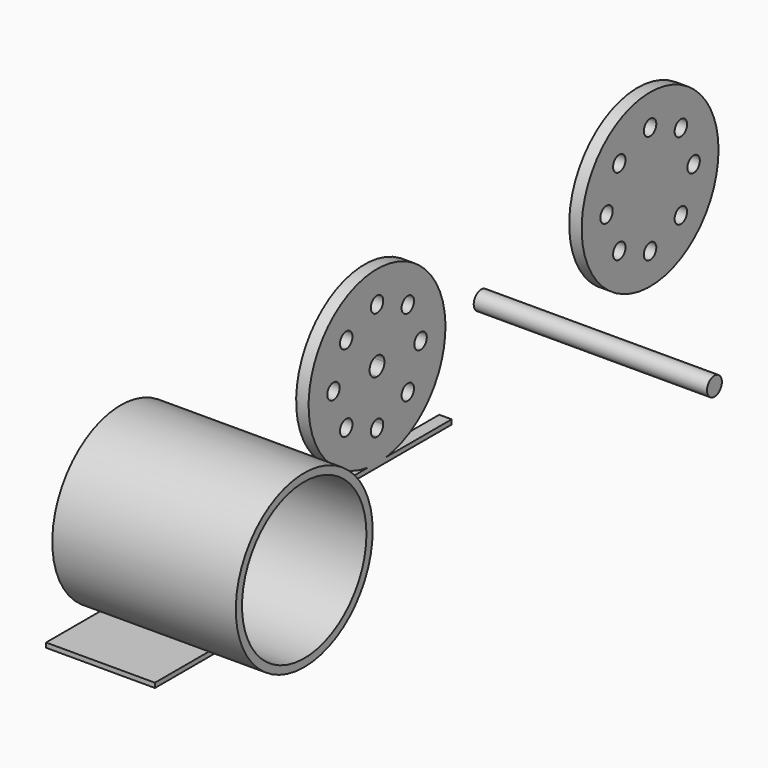
from build123d import *

# Parameters (mm, degrees)
F0_R     = 5
F1_DEPTH = 8
F2_R     = 6
F3_DEPTH = 150
F4_R     = 55
F4_R_2   = 5
F5_DEPTH = 8
F6_R     = 50
F7_DEPTH = 118
F8_DEPTH = 70


with BuildPart() as f1:
    # F0 (on Right) → F1 (new body)
    with BuildSketch(Plane.YZ):
        with BuildLine():
            Line((60, -54.5), (7.399324, -54.5))
            ThreePointArc((7.399324, -54.5), (0, 55), (-7.399324, -54.5))
            Line((-7.399324, -54.5), (-60, -54.5))
            Line((-60, -54.5), (-60, -57.5))
            Line((-60, -57.5), (60, -57.5))
            Line((60, -57.5), (60, -55))
            Line((60, -55), (60, -54.5))
        make_face()
        with Locations((-24.748737, -24.748737)):
            Circle(F0_R, mode=Mode.SUBTRACT)
        with BuildLine():
            ThreePointArc((0, -40), (-5, -35), (0, -30))
            ThreePointArc((0, -30), (3.535534, -31.464466), (5, -35))
            ThreePointArc((5, -35), (3.535534, -38.535534), (0, -40))
        make_face(mode=Mode.SUBTRACT)
        with Locations((24.748737, -24.748737)):
            Circle(F0_R, mode=Mode.SUBTRACT)
        with Locations((-35, 0)):
            Circle(F0_R, mode=Mode.SUBTRACT)
        with Locations((-24.748737, 24.748737)):
            Circle(F0_R, mode=Mode.SUBTRACT)
        with BuildLine():
            ThreePointArc((0, -6), (-4.242641, 4.242641), (6, 0))
            ThreePointArc((6, 0), (4.242641, -4.242641), (0, -6))
        make_face(mode=Mode.SUBTRACT)
        with Locations((24.748737, 24.748737)):
            Circle(F0_R, mode=Mode.SUBTRACT)
        with Locations((35, 0)):
            Circle(F0_R, mode=Mode.SUBTRACT)
        with Locations((0, 35)):
            Circle(F0_R, mode=Mode.SUBTRACT)
    extrude(amount=F1_DEPTH)


with BuildPart() as f3:
    # F2 (on Right) → F3 (new body)
    with BuildSketch(Plane.YZ):
        with Locations((93.726583, -3.275273)):
            Circle(F2_R)
    extrude(amount=F3_DEPTH)


with BuildPart() as f5:
    # F4 (on Right) → F5 (new body)
    with BuildSketch(Plane.YZ):
        with Locations((219.479918, 10.839347)):
            Circle(F4_R)
        with Locations((194.731181, -13.909391)):
            Circle(F4_R_2, mode=Mode.SUBTRACT)
        with Locations((219.479918, -24.160653)):
            Circle(F4_R_2, mode=Mode.SUBTRACT)
        with Locations((244.228656, -13.909391)):
            Circle(F4_R_2, mode=Mode.SUBTRACT)
        with Locations((254.479918, 10.839347)):
            Circle(F4_R_2, mode=Mode.SUBTRACT)
        with Locations((184.479918, 10.839347)):
            Circle(F4_R_2, mode=Mode.SUBTRACT)
        with Locations((194.731181, 35.588084)):
            Circle(F4_R_2, mode=Mode.SUBTRACT)
        with Locations((244.228656, 35.588084)):
            Circle(F4_R_2, mode=Mode.SUBTRACT)
        with Locations((219.479918, 45.839347)):
            Circle(F4_R_2, mode=Mode.SUBTRACT)
    extrude(amount=F5_DEPTH)


with BuildPart() as f7:
    # F6 (on Right) → F7 (new body)
    with BuildSketch(Plane.YZ):
        with BuildLine():
            ThreePointArc((-196.000233, -55), (-157.10936, -38.890873), (-141.000233, 0))
            ThreePointArc((-141.000233, 0), (-234.891106, 38.890873), (-196.000233, -55))
        make_face()
        with Locations((-196.000233, 0)):
            Circle(F6_R, mode=Mode.SUBTRACT)
    extrude(amount=F7_DEPTH)

    # F6 (on Right) → F8 (join)
    with BuildSketch(Plane.YZ):
        Polygon((-136.000233, -55), (-196.000233, -55), (-256.000233, -55), (-256.000233, -58), (-136.000233, -58), align=None)
    extrude(amount=F8_DEPTH)


solid = Compound([f1.part, f3.part, f5.part, f7.part])
